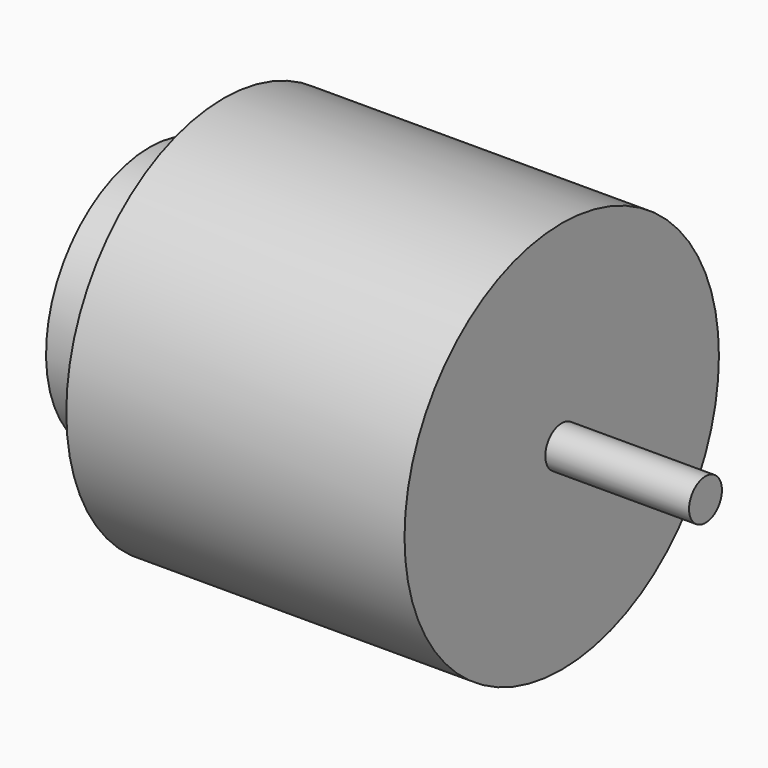
from build123d import *

# Parameters (mm, degrees)
F0_W   = 5.4
F0_H   = 9.45
F0_W_2 = 10.5
F0_H_2 = 1.5


with BuildPart() as f1:
    # F0 (on Front) → F1 (revolve)
    with BuildSketch(Plane.XZ):
        with Locations((-27.4, 4.725)):
            Rectangle(F0_W, F0_H)
        Polygon((0, 14.35), (-24.7, 14.35), (-24.7, 9.45), (-24.7, 0), (0, 0), (0, 1.5), align=None)
        with Locations((5.25, 0.75)):
            Rectangle(F0_W_2, F0_H_2)
    revolve(axis=Axis((-15.05, 0, 0), (-1, 0, 0)))


solid = f1.part
